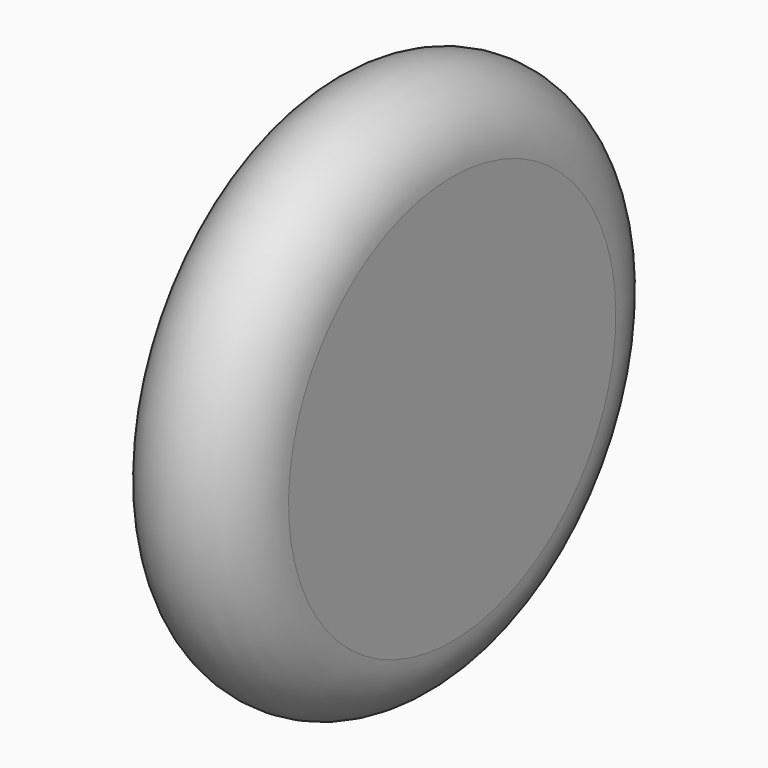
from build123d import *

# Parameters (mm, degrees)
F0_W = 31.75
F0_H = 47.625


with BuildPart() as f1:
    # F0 (on Front) → F1 (revolve)
    with BuildSketch(Plane.XZ):
        with BuildLine():
            ThreePointArc((15.875, 47.625), (0, 63.5), (-15.875, 47.625))
            Line((-15.875, 47.625), (15.875, 47.625))
        make_face()
        with Locations((0, 23.8125)):
            Rectangle(F0_W, F0_H)
    revolve(axis=Axis((0, 0, 0), (1, 0, 0)))


solid = f1.part
